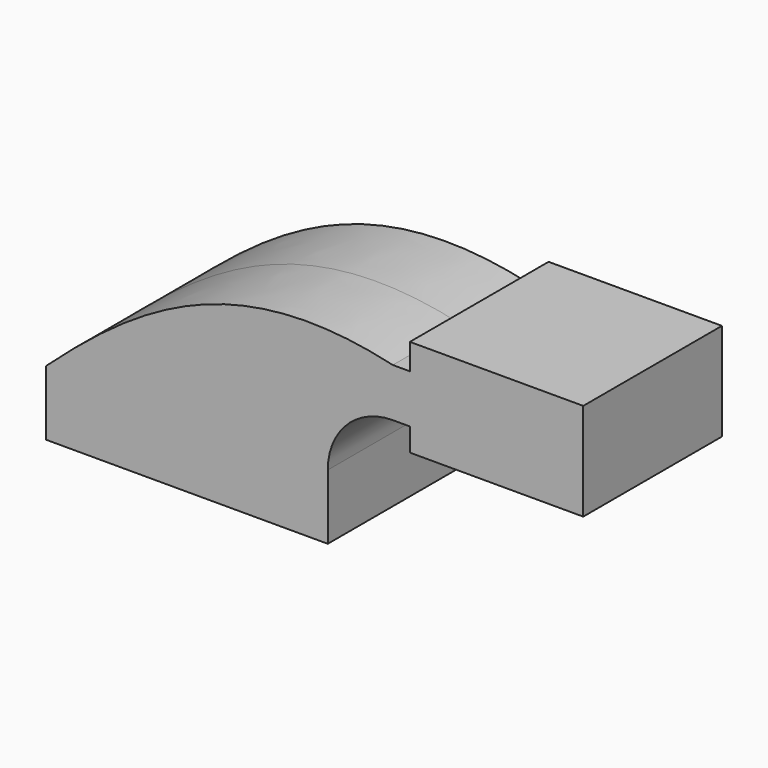
from build123d import *

# Parameters (mm, degrees)
F1_DEPTH = 25.4


with BuildPart() as f1:
    # F0 (on Front) → F1 (new body, symmetric)
    with BuildSketch(Plane.XZ):
        Polygon((65.332091, 50.400867), (65.332091, 42.799), (65.332091, 28.575), (65.332091, 21.825867), (116.132091, 21.825867), (116.132091, 50.400867), align=None)
        with BuildLine():
            ThreePointArc((60.325, 42.799), (36.796729, 33.053271), (27.051, 9.525))
            Line((27.051, 9.525), (41.275, 9.525))
            ThreePointArc((41.275, 9.525), (46.854616, 22.995384), (60.325, 28.575))
            Line((60.325, 28.575), (65.332091, 28.575))
            Line((65.332091, 28.575), (65.332091, 42.799))
            Line((65.332091, 42.799), (60.325, 42.799))
        make_face()
        Polygon((27.051, 9.525), (-41.275, 9.525), (-41.275, -9.525), (41.275, -9.525), (41.275, 9.525), align=None)
        with BuildLine():
            add(Edge.make_bspline(
                [(-41.275, 9.525), (-13.07586, 35.157815), (15.348731, 53.430766), (60.325, 42.799)],
                knots=[0, 0, 0, 0, 106.909864, 106.909864, 106.909864, 106.909864], degree=3))
            Line((-41.275, 9.525), (27.051, 9.525))
            ThreePointArc((27.051, 9.525), (36.796729, 33.053271), (60.325, 42.799))
        make_face()
    extrude(amount=F1_DEPTH, both=True)


solid = f1.part
